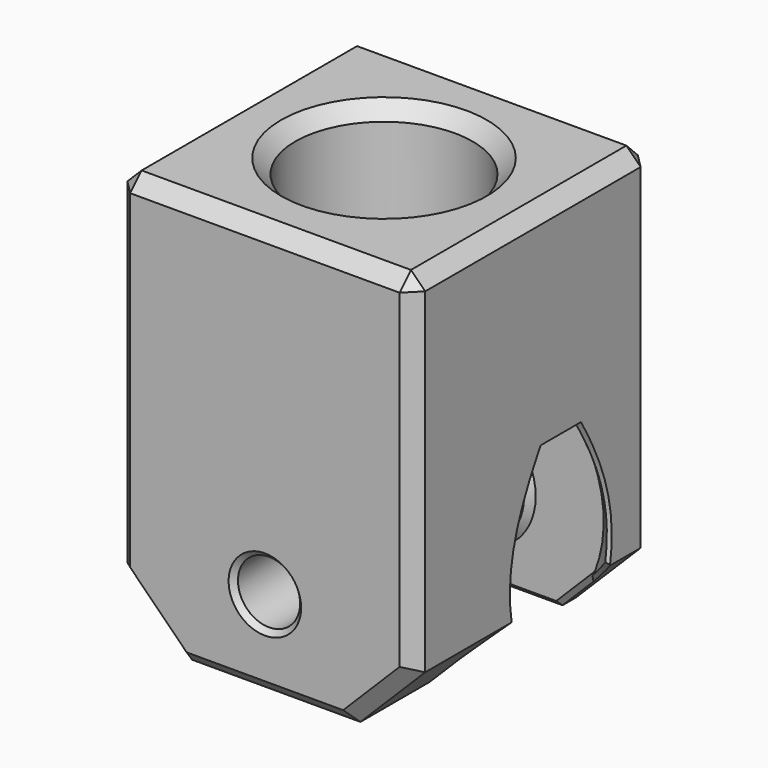
from build123d import *

# Parameters (mm, degrees)
SKETCH035_W          = 23
SKETCH035_H          = 32
PAD017_DEPTH         = 11.5
CHAMFER012_SIZE      = 5
SKETCH036_R          = 6.85
POCKET010_DEPTH      = 10
SKETCH037_R          = 12.5
POCKET011_DEPTH      = 8.71
POCKET011_DEPTH_BACK = 3.32
CHAMFER013_SIZE      = 2.5
SKETCH038_R          = 4.75
PAD018_DEPTH         = 0.5
PAD018_TAPER         = 45
SKETCH039_R          = 4.75
PAD019_DEPTH         = 0.5
PAD019_TAPER         = 45
SKETCH040_R          = 2.55
POCKET012_DEPTH      = 3.291
SKETCH041_R          = 2.4
POCKET013_DEPTH      = 8.681
CHAMFER014_SIZE      = 1.1
CHAMFER015_SIZE      = 4
CHAMFER016_SIZE      = 0.4


with BuildPart() as part:
    # Sketch035 → Pad017 (new body, symmetric)
    with BuildSketch(Plane.XZ):
        with Locations((0, 9)):
            Rectangle(SKETCH035_W, SKETCH035_H)
    extrude(amount=PAD017_DEPTH, both=True)

    # Chamfer012
    chamfer012_edges = [part.edges().sort_by_distance(p)[0] for p in [
        (11.5, 0, -7),
        (-11.5, 0, -7),
    ]]
    chamfer(chamfer012_edges, length=CHAMFER012_SIZE)

    # Sketch036 (on Face8 of Chamfer012) → Pocket010 (cut)
    with BuildSketch(Plane(origin=(0, 0, 25), x_dir=(-1, 0, 0), z_dir=(0, 0, 1))):
        Circle(SKETCH036_R)
    extrude(amount=-POCKET010_DEPTH, mode=Mode.SUBTRACT)

    # Sketch037 → Pocket011 (cut, two sides)
    with BuildSketch(Plane.XZ) as pocket011_sk:
        Circle(SKETCH037_R)
    extrude(amount=-POCKET011_DEPTH, mode=Mode.SUBTRACT)
    extrude(pocket011_sk.sketch, amount=POCKET011_DEPTH_BACK, mode=Mode.SUBTRACT)

    # Chamfer013
    chamfer013_edges = [part.edges().sort_by_distance(p)[0] for p in [
        (0, -3.32, 12.5),
        (0, 8.71, 12.5),
    ]]
    chamfer(chamfer013_edges, length=CHAMFER013_SIZE)

    # Sketch038 (on Face5 of Chamfer013) → Pad018 (join)
    with BuildSketch(Plane.XZ.offset(-8.71)):
        Circle(SKETCH038_R)
    extrude(amount=PAD018_DEPTH, taper=PAD018_TAPER)

    # Sketch039 (on Face15 of Pad018) → Pad019 (join)
    with BuildSketch(Plane(origin=(0, -3.32, 0), x_dir=(1, 0, 0), z_dir=(0, 1, 0))):
        Circle(SKETCH039_R)
    extrude(amount=PAD019_DEPTH, taper=PAD019_TAPER)

    # Sketch040 (on Face19 of Pad019) → Pocket012 (cut, through all)
    with BuildSketch(Plane.XZ.offset(-8.21)):
        Circle(SKETCH040_R)
    extrude(amount=-POCKET012_DEPTH, mode=Mode.SUBTRACT)

    # Sketch041 (on Face23 of Pocket012) → Pocket013 (cut, through all)
    with BuildSketch(Plane(origin=(0, -2.82, 0), x_dir=(1, 0, 0), z_dir=(0, 1, 0))):
        Circle(SKETCH041_R)
    extrude(amount=-POCKET013_DEPTH, mode=Mode.SUBTRACT)

    # Chamfer014
    chamfer014_edges = [part.edges().sort_by_distance(p)[0] for p in [
        (11.5, 0, 25),
        (0, 11.5, 25),
        (0, -11.5, 25),
        (-11.5, 0, 25),
        (6.85, 0, 25),
        (11.5, 11.5, 11.5),
        (-11.5, 11.5, 11.5),
        (-11.5, -11.5, 11.5),
        (11.5, -11.5, 11.5),
        (9, -11.5, -4.5),
        (0, -11.5, -7),
        (-9, -11.5, -4.5),
        (9, 11.5, -4.5),
        (0, 11.5, -7),
        (-9, 11.5, -4.5),
    ]]
    chamfer(chamfer014_edges, length=CHAMFER014_SIZE)

    # Chamfer015
    chamfer015_edges = [part.edges().sort_by_distance(p)[0] for p in [
        (-11.5, 2.695, 4.898979),
        (11.5, 2.695, 4.898979),
    ]]
    chamfer(chamfer015_edges, length=CHAMFER015_SIZE)

    # Chamfer016
    chamfer016_edges = [part.edges().sort_by_distance(p)[0] for p in [
        (11.5, 0.11343, 6.943128),
        (11.5, -1.721842, 1.505745),
        (11.5, 5.27657, 6.943128),
        (11.5, 7.111842, 1.505745),
        (10.212085, -2.59167, -3.287915),
        (7.678269, -3.32, -5.821731),
        (0, -3.32, -7),
        (-7.678269, -3.32, -5.821731),
        (-10.212085, -2.59167, -3.287915),
        (-11.5, -1.721842, 1.505745),
        (-11.5, 2.695, 8.898979),
        (-11.5, 0.11343, 6.943128),
        (-11.5, 5.27657, 6.943128),
        (-11.5, 7.111842, 1.505745),
        (-10.212085, 7.98167, -3.287915),
        (-7.678269, 8.71, -5.821731),
        (0, 8.71, -7),
        (7.678269, 8.71, -5.821731),
        (10.212085, 7.98167, -3.287915),
        (-2.55, 11.5, 0),
        (-2.4, -2.82, 0),
        (-2.4, -11.5, 0),
        (-2.55, 8.21, 0),
        (6.85, 0, 15),
    ]]
    chamfer(chamfer016_edges, length=CHAMFER016_SIZE)


solid = part.part
